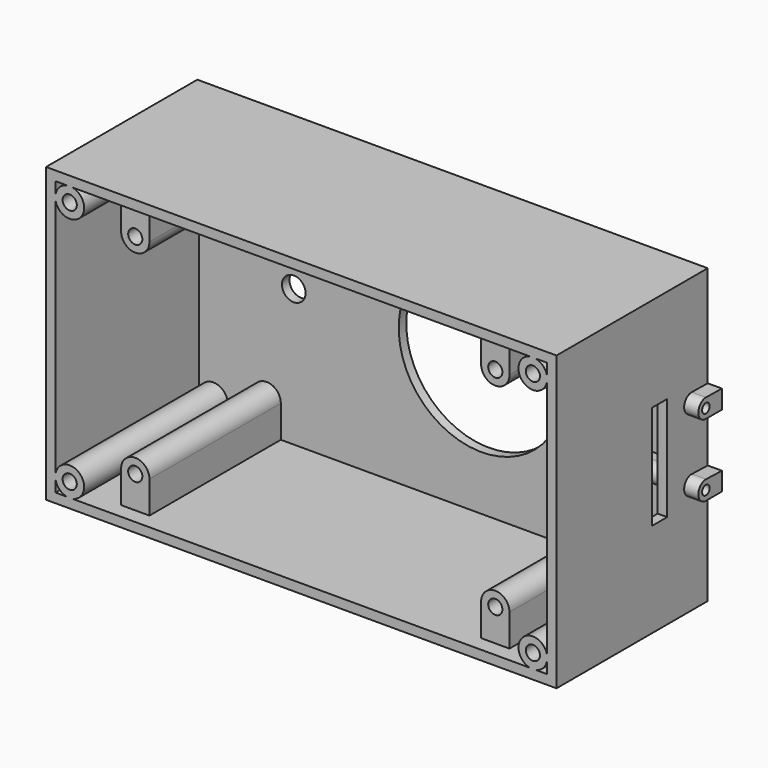
from build123d import *

# Parameters (mm, degrees)
F0_W           = 108
F0_H           = 62
F1_DEPTH       = 40
F2_W           = 104
F2_H           = 58
F3_DEPTH       = 38
F5_START       = -3.25
F5_DEPTH       = 34.75
F6_R           = 3.05
F7_DEPTH       = 38
F8_R           = 1.5
F9_DEPTH       = 15
F10_R          = 1.5
F11_DEPTH      = 18.5
F12_R          = 17.5
F12_R_2        = 2.5
F13_DEPTH      = 40.001
F16_DEPTH      = 15
F16_DEPTH_BACK = 3
F17_W          = 4
F17_H          = 22
F18_DEPTH      = 2
F19_R          = 1
F20_DEPTH      = 10
F20_DEPTH_BACK = 5


with BuildPart() as f1:
    # F0 (on Front) → F1 (new body)
    with BuildSketch(Plane.XZ):
        Rectangle(F0_W, F0_H)
    extrude(amount=-F1_DEPTH)

    # F2 (on Front) → F3 (cut)
    with BuildSketch(Plane.XZ):
        Rectangle(F2_W, F2_H)
    extrude(amount=-F3_DEPTH, mode=Mode.SUBTRACT)

    # F4 (on Front) → F5 (join)
    with BuildSketch(Plane.XZ.offset(F5_START)):
        with BuildLine():
            ThreePointArc((-40.73, 22), (-37.73, 19), (-34.73, 22))
            ThreePointArc((-34.73, 22), (-37.73, 25), (-40.73, 22))
        make_face()
        with BuildLine():
            ThreePointArc((-40.73, 22), (-37.73, 25), (-34.73, 22))
            Line((-34.73, 22), (-34.73, 29.0249657466))
            Line((-34.73, 29.0249657466), (-40.73, 29.0249657466))
            Line((-40.73, 29.0249657466), (-40.73, 22))
        make_face()
        with BuildLine():
            ThreePointArc((35.45, 22), (38.45, 19), (41.45, 22))
            ThreePointArc((41.45, 22), (38.45, 25), (35.45, 22))
        make_face()
        with BuildLine():
            ThreePointArc((35.45, 22), (38.45, 25), (41.45, 22))
            Line((41.45, 22), (41.45, 29.0909428149))
            Line((41.45, 29.0909428149), (35.45, 29.1012134403))
            Line((35.45, 29.1012134403), (35.45, 22))
        make_face()
        with BuildLine():
            ThreePointArc((-40.73, -22.2), (-37.73, -25.2), (-34.73, -22.2))
            ThreePointArc((-34.73, -22.2), (-37.73, -19.2), (-40.73, -22.2))
        make_face()
        with BuildLine():
            Line((-34.73, -29.2853660554), (-34.73, -22.2))
            ThreePointArc((-34.73, -22.2), (-37.73, -25.2), (-40.73, -22.2))
            Line((-40.73, -22.2), (-40.73, -29.2745608509))
            Line((-40.73, -29.2745608509), (-34.73, -29.2853660554))
        make_face()
        with BuildLine():
            ThreePointArc((35.45, -22.2), (38.45, -25.2), (41.45, -22.2))
            ThreePointArc((41.45, -22.2), (38.45, -19.2), (35.45, -22.2))
        make_face()
        with BuildLine():
            Line((41.45, -29.2963500738), (41.45, -22.2))
            ThreePointArc((41.45, -22.2), (38.45, -25.2), (35.45, -22.2))
            Line((35.45, -22.2), (35.45, -29.2963500738))
            Line((35.45, -29.2963500738), (41.45, -29.2963500738))
        make_face()
    extrude(amount=-F5_DEPTH)

    # F6 (on Front) → F7 (join, through all)
    with BuildSketch(Plane.XZ):
        with Locations((-49, 26)):
            Circle(F6_R)
        with Locations((49, 26)):
            Circle(F6_R)
        with Locations((49, -26)):
            Circle(F6_R)
        with Locations((-49, -26)):
            Circle(F6_R)
    extrude(amount=-F7_DEPTH)

    # F8 (on Front) → F9 (cut)
    with BuildSketch(Plane.XZ):
        with Locations((-49, 26)):
            Circle(F8_R)
        with Locations((-49, -26)):
            Circle(F8_R)
        with Locations((49, -26)):
            Circle(F8_R)
        with Locations((49, 26)):
            Circle(F8_R)
    extrude(amount=-F9_DEPTH, mode=Mode.SUBTRACT)

    # F10 (on Front) → F11 (cut)
    with BuildSketch(Plane.XZ):
        with Locations((-37.73, 22)):
            Circle(F10_R)
        with Locations((-37.73, -22.2)):
            Circle(F10_R)
        with Locations((38.45, 22)):
            Circle(F10_R)
        with Locations((38.45, -22.2)):
            Circle(F10_R)
    extrude(amount=-F11_DEPTH, mode=Mode.SUBTRACT)

    # F12 (on Front) → F13 (cut, through all)
    with BuildSketch(Plane.XZ):
        with Locations((7.7104928971, 0)):
            Circle(F12_R)
        with Locations((-32, 0)):
            Circle(F12_R_2)
        with Locations((32, 0)):
            Circle(F12_R_2)
    extrude(amount=-F13_DEPTH, mode=Mode.SUBTRACT)

    # F15 (on offset) → F16 (join, two sides)
    with BuildSketch(Plane.YZ.offset(54)) as f16_sk:
        with BuildLine():
            Line((40, 9.5658428478), (35.7879940012, 9.6248040744))
            ThreePointArc((35.7879940012, 9.6248040744), (33.7602591267, 7.5928062172), (35.8523524108, 5.6271333798))
            Line((35.8523524108, 5.6271333798), (40, 5.6271333798))
            Line((40, 5.6271333798), (40, 9.5658428478))
        make_face()
        with BuildLine():
            Line((40, -5.7445825184), (35.8167641743, -5.6258057052))
            ThreePointArc((35.8167641743, -5.6258057052), (33.7602698715, -7.5921455752), (35.7510600226, -9.6249800191))
            ThreePointArc((35.7510600226, -9.6249800191), (35.76, -9.625), (35.7689399774, -9.6249800191))
            Line((35.7689399774, -9.6249800191), (40, -9.6249800191))
            Line((40, -9.6249800191), (40, -5.7445825184))
        make_face()
    extrude(amount=-F16_DEPTH)
    extrude(f16_sk.sketch, amount=F16_DEPTH_BACK)

    # F17 (on offset) → F18 (cut, through all)
    with BuildSketch(Plane.YZ.offset(54)):
        with Locations((27.26, 0)):
            Rectangle(F17_W, F17_H)
    extrude(amount=-F18_DEPTH, mode=Mode.SUBTRACT)

    # F19 (on offset) → F20 (cut, two sides)
    with BuildSketch(Plane.YZ.offset(54)) as f20_sk:
        with Locations((35.76, 7.625)):
            Circle(F19_R)
        with Locations((35.76, -7.625)):
            Circle(F19_R)
    extrude(amount=-F20_DEPTH, mode=Mode.SUBTRACT)
    extrude(f20_sk.sketch, amount=F20_DEPTH_BACK, mode=Mode.SUBTRACT)


solid = f1.part
